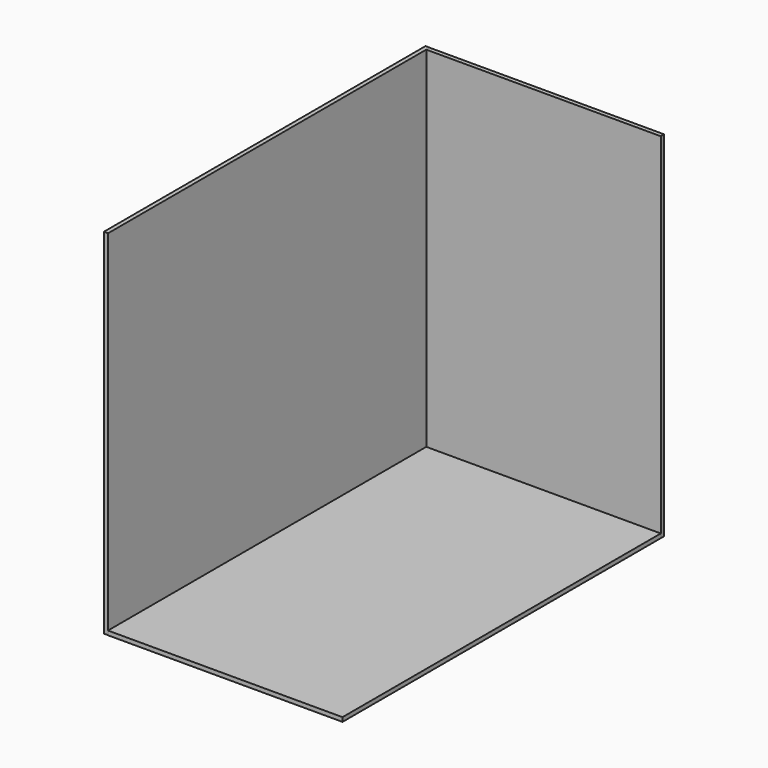
from build123d import *

# Parameters (mm, degrees)
F0_W          = 1422.4
F0_H          = 2413
F1_DEPTH      = 25.4
F2_W          = 1422.4
F2_H          = 25.4
F3_DEPTH      = 2120.9
F3_DEPTH_BACK = 25.4
F4_W          = 25.4
F4_H          = 2438.4
F5_DEPTH      = 2146.3


with BuildPart() as f1:
    # F0 (on Top) → F1 (new body)
    with BuildSketch(Plane.XY):
        with Locations((711.2, -1206.5)):
            Rectangle(F0_W, F0_H)
    extrude(amount=F1_DEPTH)


with BuildPart() as f3:
    # F2 (on face) → F3 (new body, two sides)
    with BuildSketch(Plane.XY.offset(25.4)) as f3_sk:
        with Locations((711.2, 12.7)):
            Rectangle(F2_W, F2_H)
    extrude(amount=F3_DEPTH)
    extrude(f3_sk.sketch, amount=-F3_DEPTH_BACK)


with BuildPart() as f5:
    # F4 (on Top) → F5 (new body)
    with BuildSketch(Plane.XY):
        with Locations((-12.7, -1193.095361)):
            Rectangle(F4_W, F4_H)
    extrude(amount=F5_DEPTH)


solid = Compound([f1.part, f3.part, f5.part])
